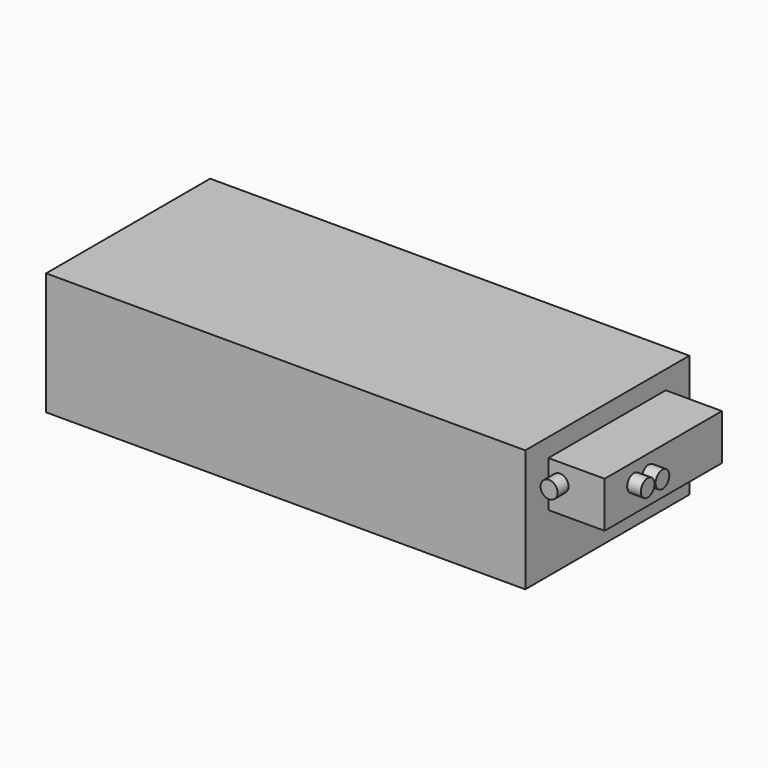
from build123d import *

# Parameters (mm, degrees)
SKETCH_W     = 701
SKETCH_H     = 300
PAD_DEPTH    = 179
SKETCH001_W  = 82.25
SKETCH001_H  = 214.5
PAD001_DEPTH = 67
SKETCH002_R  = 12.5
PAD002_DEPTH = 20
SKETCH003_R  = 12.5
PAD003_DEPTH = 20


with BuildPart() as part:
    # Sketch → Pad (new body)
    with BuildSketch(Plane.XY):
        Rectangle(SKETCH_W, SKETCH_H)
    extrude(amount=PAD_DEPTH)

    # Sketch001 → Pad001 (join)
    with BuildSketch(Plane.XY.offset(85)):
        with Locations((391.625, -0.5)):
            Rectangle(SKETCH001_W, SKETCH001_H)
    extrude(amount=PAD001_DEPTH)

    # Sketch002 → Pad002 (join)
    with BuildSketch(Plane.YZ.offset(432.75)):
        with Locations((-54, 125)):
            Circle(SKETCH002_R)
        with Locations((-27, 125)):
            Circle(SKETCH002_R)
    extrude(amount=PAD002_DEPTH)

    # Sketch003 → Pad003 (join)
    with BuildSketch(Plane.XZ.offset(107.75)):
        with Locations((367.5, 125)):
            Circle(SKETCH003_R)
    extrude(amount=PAD003_DEPTH)


solid = part.part
